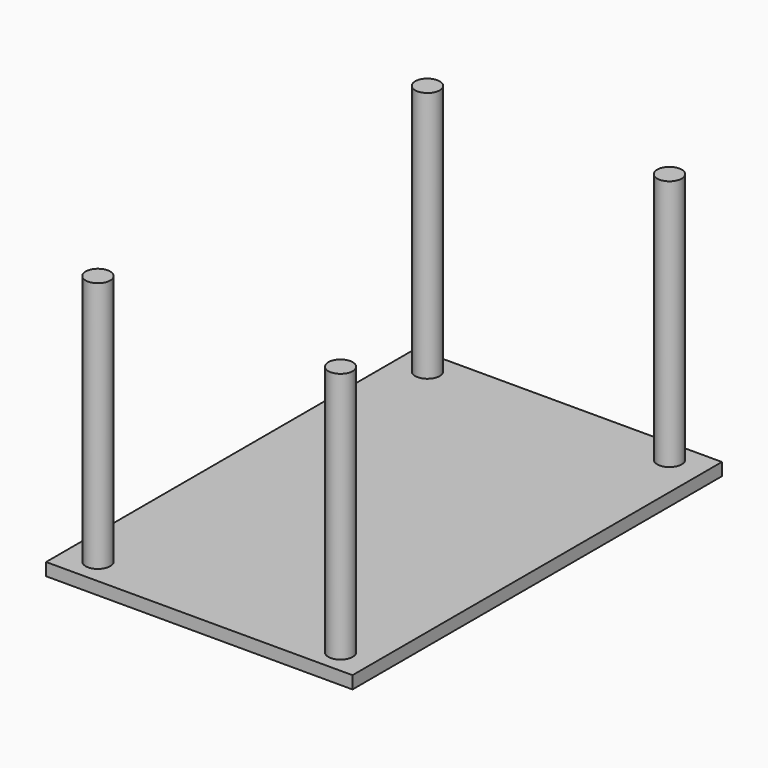
from build123d import *

# Parameters (mm, degrees)
F0_W      = 61.878236
F0_H      = 93.249064
F1_DEPTH  = 2.54
F2_R      = 3.356363
F3_DEPTH  = 34.29
F4_R      = 2.475799
F5_DEPTH  = 50.8
F6_R      = 2.475799
F7_DEPTH  = 50.8
F8_R      = 2.475798
F9_DEPTH  = 50.8
F10_R     = 2.459012
F11_DEPTH = 50.8


with BuildPart() as f1:
    # F0 (on Top) → F1 (new body)
    with BuildSketch(Plane.XY):
        with Locations((-1e-06, -5.90002)):
            Rectangle(F0_W, F0_H)
    extrude(amount=F1_DEPTH)

    # F2 (on face) → F3 (cut)
    with BuildSketch(Plane(origin=(0, 0, 0), x_dir=(1, 0, 0), z_dir=(0, 0, -1))):
        with Locations((-24.319587, 47.631852)):
            Circle(F2_R)
    extrude(amount=F3_DEPTH, mode=Mode.SUBTRACT)

    # F4 (on face) → F5 (join)
    with BuildSketch(Plane.XY.offset(2.54)):
        with Locations((-24.607392, 35.831816)):
            Circle(F4_R)
    extrude(amount=F5_DEPTH)

    # F6 (on face) → F7 (join)
    with BuildSketch(Plane.XY.offset(2.54)):
        with Locations((24.031781, 36.119621)):
            Circle(F6_R)
    extrude(amount=F7_DEPTH)

    # F8 (on face) → F9 (join)
    with BuildSketch(Plane.XY.offset(2.54)):
        with Locations((-24.607392, -47.344048)):
            Circle(F8_R)
    extrude(amount=F9_DEPTH)

    # F10 (on face) → F11 (join)
    with BuildSketch(Plane.XY.offset(2.54)):
        with Locations((24.607392, -47.631852)):
            Circle(F10_R)
    extrude(amount=F11_DEPTH)


solid = f1.part
